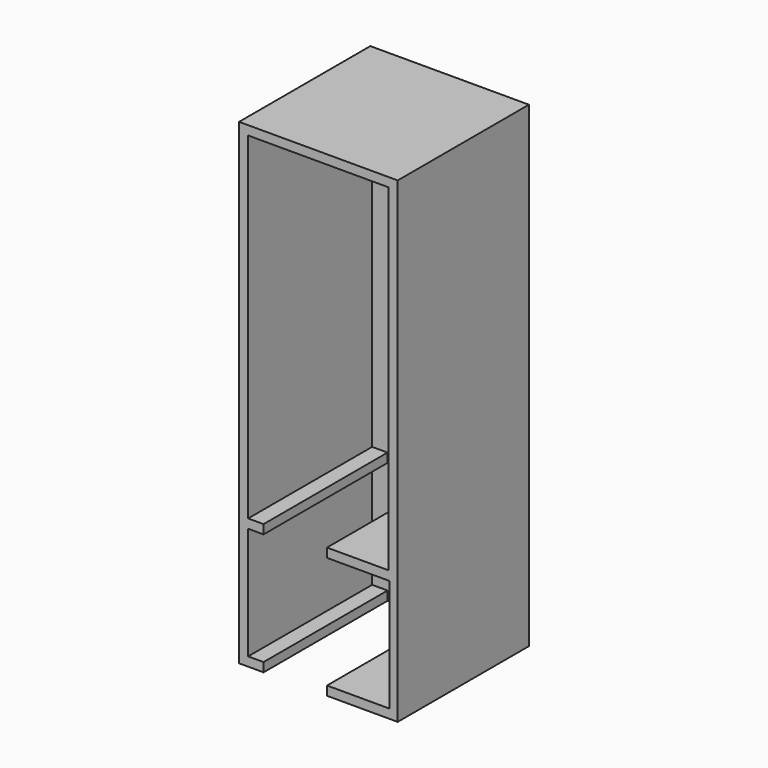
from build123d import *

# Parameters (mm, degrees)
F0_W     = 1750
F0_H     = 5260
F0_W_2   = 1558.933921
F0_H_2   = 1240
F0_W_3   = 1550
F0_H_3   = 3720
F1_DEPTH = 2700
F2_W     = 1750
F2_H     = 5260
F3_DEPTH = 100
F4_W     = 700
F4_H     = 2200
F5_DEPTH = 3089.338541
F6_W     = 3622.153283
F6_H     = 7279.484034
F6_W_2   = 1750
F6_H_2   = 5260
F6_W_3   = 1558.933921
F6_H_3   = 1240
F6_W_4   = 1550
F6_H_4   = 3720
F7_DEPTH = 990


with BuildPart() as f1:
    # F0 (on Front) → F1 (new body)
    with BuildSketch(Plane.XZ):
        with Locations((775, 545.618997)):
            Rectangle(F0_W, F0_H)
        with Locations((779.46696, -1364.381003)):
            Rectangle(F0_W_2, F0_H_2, mode=Mode.SUBTRACT)
        with Locations((775, 1215.618997)):
            Rectangle(F0_W_3, F0_H_3, mode=Mode.SUBTRACT)
    extrude(amount=F1_DEPTH)

    # F2 (on face) → F3 (join)
    with BuildSketch(Plane(origin=(0, 0, 0), x_dir=(-1, 0, 0), z_dir=(0, 1, 0))):
        with Locations((-775, 545.618997)):
            Rectangle(F2_W, F2_H)
    extrude(amount=F3_DEPTH)

    # F4 (on face) → F5 (cut)
    with BuildSketch(Plane.XY.offset(-644.381003)):
        with Locations((520, -1100)):
            Rectangle(F4_W, F4_H)
    extrude(amount=-F5_DEPTH, mode=Mode.SUBTRACT)

    # F6 (on face) → F7 (cut)
    with BuildSketch(Plane.XZ.offset(2700)):
        with Locations((761.131763, 494.983077)):
            Rectangle(F6_W, F6_H)
        with Locations((775, 545.618997)):
            Rectangle(F6_W_2, F6_H_2, mode=Mode.SUBTRACT)
        with Locations((775, 545.618997)):
            Rectangle(F6_W_2, F6_H_2)
        with Locations((779.46696, -1364.381003)):
            Rectangle(F6_W_3, F6_H_3, mode=Mode.SUBTRACT)
        with Locations((775, 1215.618997)):
            Rectangle(F6_W_4, F6_H_4, mode=Mode.SUBTRACT)
        with Locations((775, 1215.618997)):
            Rectangle(F6_W_4, F6_H_4)
        with Locations((779.46696, -1364.381003)):
            Rectangle(F6_W_3, F6_H_3)
    extrude(amount=-F7_DEPTH, mode=Mode.SUBTRACT)


solid = f1.part
